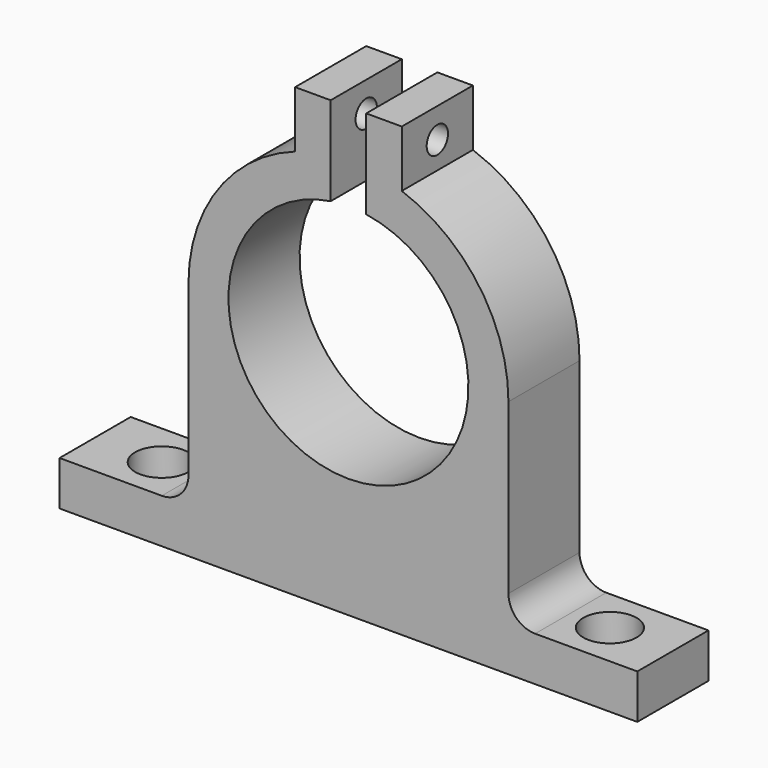
from build123d import *

# Parameters (mm, degrees)
F1_DEPTH = 5
F2_R     = 1.5
F3_DEPTH = 12.5
F5_R     = 3
F6_R     = 3
F7_DEPTH = 25


with BuildPart() as f1:
    # F0 (on Front) → F1 (new body, symmetric)
    with BuildSketch(Plane.XZ):
        with BuildLine():
            ThreePointArc((2, 40.35103), (0, 13.5), (-2, 40.35103))
            Line((-2, 40.35103), (-2, 40.404946))
            Line((-2, 40.404946), (-2, 50.35103))
            Line((-2, 50.35103), (-6, 50.35103))
            Line((-6, 50.35103), (-6, 43.970563))
            ThreePointArc((-6, 43.970563), (-14.696938, 37.392305), (-18, 27))
            Line((-18, 27), (-18, 5))
            Line((-18, 5), (-32.5, 5))
            Line((-32.5, 5), (-32.5, 0))
            Line((-32.5, 0), (-15, 0))
            Line((-15, 0), (15, 0))
            Line((15, 0), (32.5, 0))
            Line((32.5, 0), (32.5, 5))
            Line((32.5, 5), (18, 5))
            Line((18, 5), (18, 27))
            ThreePointArc((18, 27), (14.696938, 37.392305), (6, 43.970563))
            Line((6, 43.970563), (6, 50.35103))
            Line((6, 50.35103), (2, 50.35103))
            Line((2, 50.35103), (2, 40.35103))
        make_face()
    extrude(amount=F1_DEPTH, both=True)


with BuildPart() as f3:
    # F2 (on Right) → F3 (new body, symmetric)
    with BuildSketch(Plane.YZ):
        with Locations((0, 47)):
            Circle(F2_R)
    extrude(amount=F3_DEPTH, both=True)


with BuildPart() as f1_1:
    add(f1.part)

    # F4: cut F3
    add(f3.part, mode=Mode.SUBTRACT)

    # F5
    f5_edges = [f1_1.edges().sort_by_distance(p)[0] for p in [
        (18, 0, 5),
        (-18, 0, 5),
    ]]
    fillet(f5_edges, radius=F5_R)


with BuildPart() as f7:
    # F6 (on Top) → F7 (new body)
    with BuildSketch(Plane.XY):
        with Locations((-25, 0)):
            Circle(F6_R)
        with Locations((25.418336, 0)):
            Circle(F6_R)
    extrude(amount=F7_DEPTH)


with BuildPart() as f1_2:
    add(f1_1.part)

    # F8: cut F7
    add(f7.part, mode=Mode.SUBTRACT)


solid = f1_2.part
